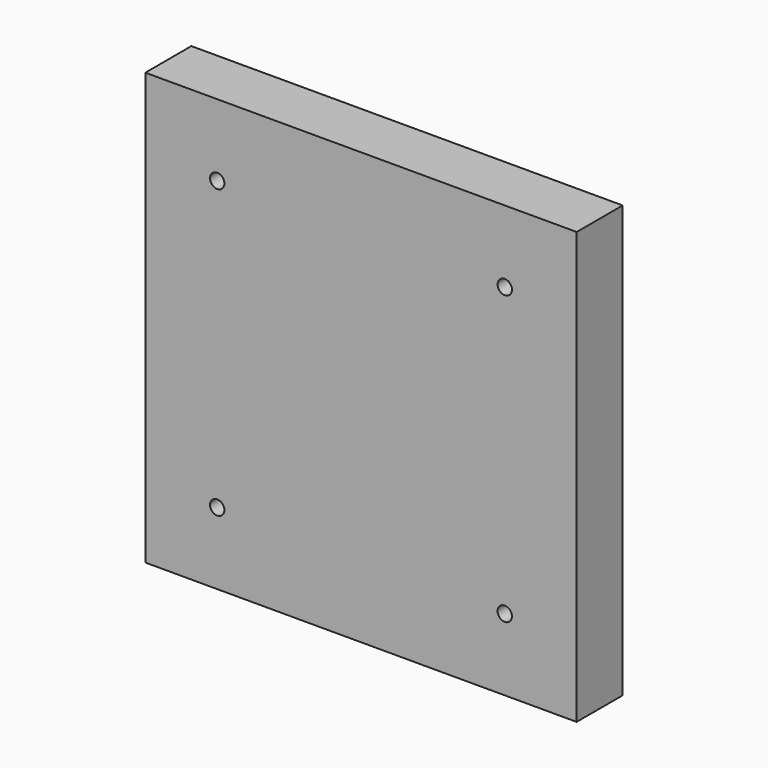
from build123d import *

# Parameters (mm, degrees)
F0_W     = 150
F0_H     = 150
F1_DEPTH = 20
F2_R     = 2.5
F3_DEPTH = 20.001


with BuildPart() as f1:
    # F0 (on Front) → F1 (new body)
    with BuildSketch(Plane.XZ):
        Rectangle(F0_W, F0_H)
    extrude(amount=F1_DEPTH)

    # F2 (on face) → F3 (cut, through all)
    with BuildSketch(Plane.XZ.offset(20)):
        with Locations((50, 50)):
            Circle(F2_R)
        with Locations((50, -50)):
            Circle(F2_R)
        with Locations((-50, -50)):
            Circle(F2_R)
        with Locations((-50, 50)):
            Circle(F2_R)
    extrude(amount=-F3_DEPTH, mode=Mode.SUBTRACT)


solid = f1.part
